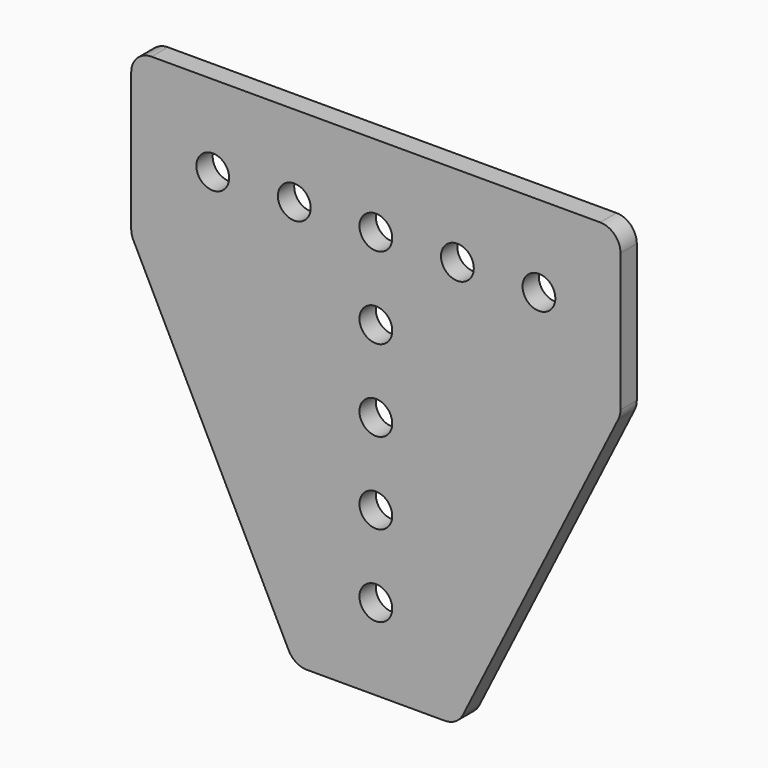
from build123d import *

# Parameters (mm, degrees)
F0_R     = 2.5527
F1_DEPTH = 3.175
F2_R     = 3.175


with BuildPart() as f1:
    # F0 (on Front) → F1 (new body)
    with BuildSketch(Plane.XZ):
        Polygon((38.1, 12.7), (-38.1, 12.7), (-38.1, -12.7), (-12.7, -63.5), (12.7, -63.5), (38.1, -12.7), align=None)
        with Locations((0, -50.8)):
            Circle(F0_R, mode=Mode.SUBTRACT)
        with Locations((0, -38.1)):
            Circle(F0_R, mode=Mode.SUBTRACT)
        with Locations((-25.4, 0)):
            Circle(F0_R, mode=Mode.SUBTRACT)
        with Locations((-12.7, 0)):
            Circle(F0_R, mode=Mode.SUBTRACT)
        with Locations((0, -25.4)):
            Circle(F0_R, mode=Mode.SUBTRACT)
        with Locations((0, -12.7)):
            Circle(F0_R, mode=Mode.SUBTRACT)
        Circle(F0_R, mode=Mode.SUBTRACT)
        with Locations((12.7, 0)):
            Circle(F0_R, mode=Mode.SUBTRACT)
        with Locations((25.4, 0)):
            Circle(F0_R, mode=Mode.SUBTRACT)
    extrude(amount=F1_DEPTH)

    # F2
    f2_edges = [f1.edges().sort_by_distance(p)[0] for p in [
        (38.1, -1.5875, 12.7),
        (38.1, -1.5875, -12.7),
        (12.7, -1.5875, -63.5),
        (-12.7, -1.5875, -63.5),
        (-38.1, -1.5875, -12.7),
        (-38.1, -1.5875, 12.7),
    ]]
    fillet(f2_edges, radius=F2_R)


solid = f1.part
